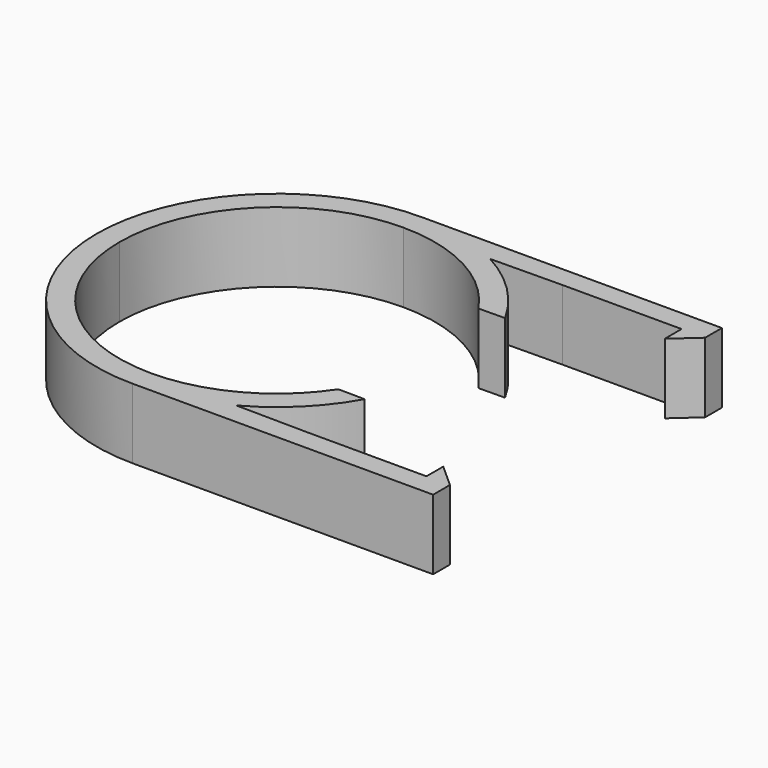
from build123d import *

# Parameters (mm, degrees)
F1_DEPTH = 10


with BuildPart() as f1:
    # F0 (on Top) → F1 (new body)
    with BuildSketch(Plane.XY):
        with BuildLine():
            Line((4.389833, 20.31636), (4.389833, 23.31636))
            Line((4.389833, 23.31636), (-38.464269, 23.31636))
            ThreePointArc((-38.464269, 23.31636), (-56.672269, 15.774359), (-64.214269, -2.43364))
            ThreePointArc((-64.214269, -2.43364), (-56.672269, -20.64164), (-38.464269, -28.18364))
            Line((-38.464269, -28.18364), (4.389833, -28.18364))
            Line((4.389833, -28.18364), (4.389833, -25.18364))
            Line((4.389833, -25.18364), (1.035731, -22.18364))
            Line((1.035731, -22.18364), (1.035731, -25.18364))
            Line((1.035731, -25.18364), (-15.964269, -25.18364))
            Line((-15.964269, -25.18364), (-26.190036, -25.070021))
            Line((-26.190036, -25.070021), (-38.464269, -24.93364))
            ThreePointArc((-38.464269, -24.93364), (-54.374172, -18.343543), (-60.964269, -2.43364))
            ThreePointArc((-60.964269, -2.43364), (-54.374172, 13.476262), (-38.464269, 20.06636))
            Line((-38.464269, 20.06636), (-26.190036, 20.20274))
            Line((-26.190036, 20.20274), (-15.964269, 20.31636))
            Line((-15.964269, 20.31636), (1.035731, 20.31636))
            Line((1.035731, 20.31636), (1.035731, 17.31636))
            Line((1.035731, 17.31636), (4.389833, 20.31636))
        make_face()
        with BuildLine():
            ThreePointArc((-15.964269, 10.088839), (-20.356686, 15.874225), (-26.190036, 20.20274))
            Line((-26.190036, 20.20274), (-38.464269, 20.06636))
            ThreePointArc((-38.464269, 20.06636), (-27.847328, 17.403964), (-19.742964, 10.046854))
            Line((-19.742964, 10.046854), (-15.964269, 10.088839))
        make_face()
        with BuildLine():
            ThreePointArc((-19.742964, -14.914135), (-27.847328, -22.271245), (-38.464269, -24.93364))
            Line((-38.464269, -24.93364), (-26.190036, -25.070021))
            ThreePointArc((-26.190036, -25.070021), (-20.356686, -20.741506), (-15.964269, -14.95612))
            Line((-15.964269, -14.95612), (-19.742964, -14.914135))
        make_face()
    extrude(amount=F1_DEPTH)


solid = f1.part
